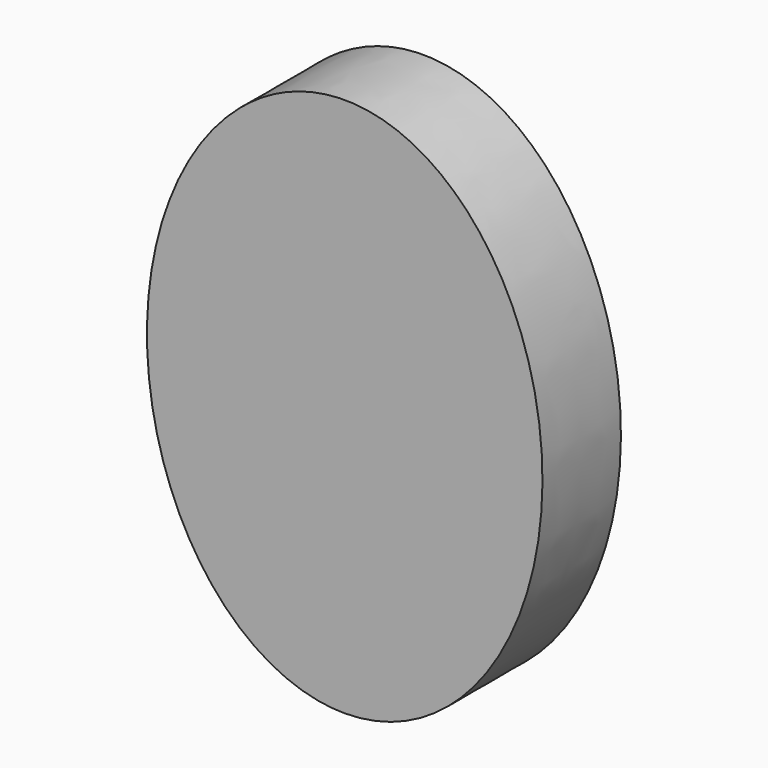
from build123d import *

# Parameters (mm, degrees)
F1_DEPTH = 25.4


with BuildPart() as f1:
    # F0 (on Front) → F1 (new body)
    with BuildSketch(Plane.XZ):
        with BuildLine():
            add(Edge.make_bspline(
                [(0, -69.917329), (88.699194, -69.917329), (44.349597, 34.958664), (0, 139.834657), (-44.349597, 34.958664), (-88.699194, -69.917329), (0, -69.917329)],
                knots=[0, 0, 0, 2.094395, 2.094395, 4.18879, 4.18879, 6.283185, 6.283185, 6.283185], degree=2, weights=[1, 0.5, 1, 0.5, 1, 0.5, 1]))
        make_face()
        with BuildLine():
            add(Edge.make_bspline(
                [(0, -68.162084), (85.511492, -68.162084), (42.755746, 34.081042), (0, 136.324167), (-42.755746, 34.081042), (-85.511492, -68.162084), (0, -68.162084)],
                knots=[0, 0, 0, 2.094395, 2.094395, 4.18879, 4.18879, 6.283185, 6.283185, 6.283185], degree=2, weights=[1, 0.5, 1, 0.5, 1, 0.5, 1]))
        make_face(mode=Mode.SUBTRACT)
        with BuildLine():
            add(Edge.make_bspline(
                [(0, -68.162084), (85.511492, -68.162084), (42.755746, 34.081042), (0, 136.324167), (-42.755746, 34.081042), (-85.511492, -68.162084), (0, -68.162084)],
                knots=[0, 0, 0, 2.094395, 2.094395, 4.18879, 4.18879, 6.283185, 6.283185, 6.283185], degree=2, weights=[1, 0.5, 1, 0.5, 1, 0.5, 1]))
        make_face()
    extrude(amount=F1_DEPTH)


solid = f1.part
